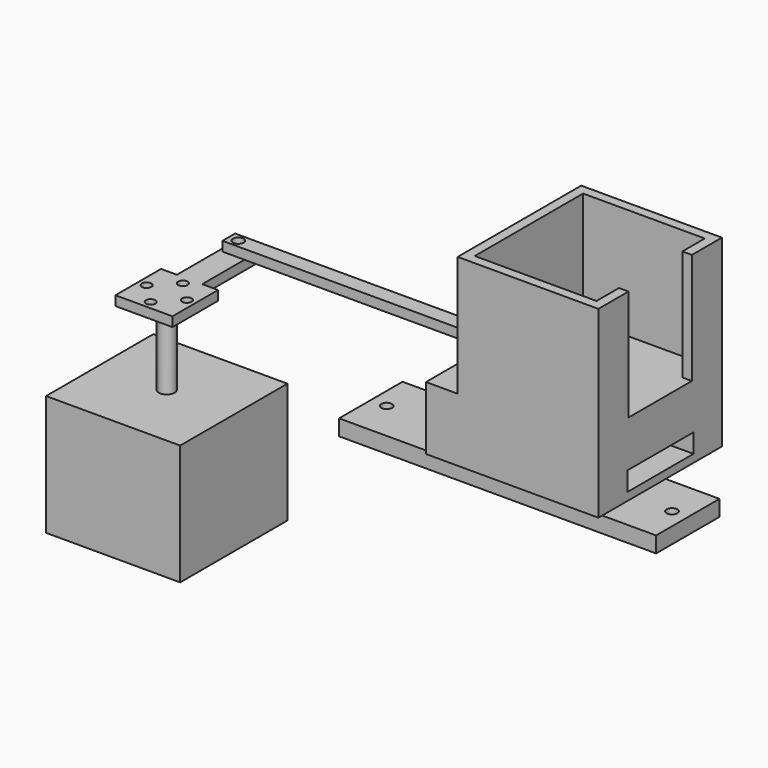
from build123d import *

# Parameters (mm, degrees)
BOX005_W                  = 100
BOX005_H                  = 26
BOX005_DEPTH              = 6
BOX003_W                  = 54.4
BOX003_H                  = 48.7
BOX003_DEPTH              = 20
BOX002_W                  = 3
BOX002_H                  = 25
BOX002_DEPTH              = 35
BOX_W                     = 38.4
BOX_H                     = 42.7
BOX_DEPTH                 = 35
BOX001_W                  = 44.4
BOX001_H                  = 48.7
BOX001_DEPTH              = 38
CYLINDER015_R             = 1.7
CYLINDER015_DEPTH         = 10
CYLINDER014_R             = 1.7
CYLINDER014_DEPTH         = 10
BOX014_W                  = 90
BOX014_H                  = 5
BOX014_DEPTH              = 3
CUT015_PLACEMENT_ANGLE    = 1.4e-05
CYLINDER011_R             = 1.8
CYLINDER011_DEPTH         = 10
BOX013_W                  = 8
BOX013_H                  = 22
BOX013_DEPTH              = 3
CYLINDER010_R             = 1.5
CYLINDER010_DEPTH         = 10
CYLINDER009_R             = 1.5
CYLINDER009_DEPTH         = 10
CYLINDER012_R             = 1.5
CYLINDER012_DEPTH         = 10
CYLINDER013_R             = 1.5
CYLINDER013_DEPTH         = 10
BOX012_W                  = 18
BOX012_H                  = 18
BOX012_DEPTH              = 3
FUSION005_PITCH_ANGLE     = 90
FUSION005_PLACEMENT_ANGLE = -90
CYLINDER008_R             = 2.5
CYLINDER008_DEPTH         = 24
BOX011_W                  = 42.3
BOX011_H                  = 42.3
BOX011_DEPTH              = 38
FUSION004_PLACEMENT_ANGLE = 90
FUSION006_ROLL_ANGLE      = -90
FUSION006_PLACEMENT_ANGLE = -90
CYLINDER016_R             = 1.7
CYLINDER016_DEPTH         = 10
CYLINDER_R                = 1.7
CYLINDER_DEPTH            = 10
BOX004_W                  = 100
BOX004_H                  = 25
BOX004_DEPTH              = 5


with BuildPart() as trayslidercutout:
    # Box005 → Box005 (new body)
    with BuildSketch(Plane(origin=(-50, 8.5, -15.5), x_dir=(1, 0, 0), z_dir=(0, 0, 1))):
        with Locations((50, 13)):
            Rectangle(BOX005_W, BOX005_H)
    extrude(amount=BOX005_DEPTH)


with BuildPart() as hollowholder:
    # Box003 → Box003 (new body)
    with BuildSketch(Plane(origin=(-13, -3, -18), x_dir=(1, 0, 0), z_dir=(0, 0, 1))):
        with Locations((27.2, 24.35)):
            Rectangle(BOX003_W, BOX003_H)
    extrude(amount=BOX003_DEPTH)

    # Cut002: cut TraySliderCutout
    add(trayslidercutout.part, mode=Mode.SUBTRACT)


with BuildPart() as trayrightcutout:
    # Box002 → Box002 (new body)
    with BuildSketch(Plane(origin=(38.4, 8.85, 0), x_dir=(1, 0, 0), z_dir=(0, 0, 1))):
        with Locations((1.5, 12.5)):
            Rectangle(BOX002_W, BOX002_H)
    extrude(amount=BOX002_DEPTH)


with BuildPart() as traynegative:
    # Box → Box (new body)
    with BuildSketch(Plane.XY):
        with Locations((19.2, 21.35)):
            Rectangle(BOX_W, BOX_H)
    extrude(amount=BOX_DEPTH)


with BuildPart() as fusion:
    # Box001 → Box001 (new body)
    with BuildSketch(Plane(origin=(-3, -3, -3), x_dir=(1, 0, 0), z_dir=(0, 0, 1))):
        with Locations((22.2, 24.35)):
            Rectangle(BOX001_W, BOX001_H)
    extrude(amount=BOX001_DEPTH)

    # Cut: cut TrayNegative
    add(traynegative.part, mode=Mode.SUBTRACT)

    # Cut001: cut TrayRightCutout
    add(trayrightcutout.part, mode=Mode.SUBTRACT)


with BuildPart() as fusion_1:
    # Cut001 placement: moved
    add(fusion.part.moved(Location((0, 0, 5))))

    # Fusion: union HollowHolder
    add(hollowholder.part)


with BuildPart() as cylinder015:
    # Cylinder015 → Cylinder015 (new body)
    with BuildSketch(Plane(origin=(87, 2.5, 0), x_dir=(1, 0, 0), z_dir=(0, 0, 1))):
        Circle(CYLINDER015_R)
    extrude(amount=CYLINDER015_DEPTH)


with BuildPart() as cylinder014:
    # Cylinder014 → Cylinder014 (new body)
    with BuildSketch(Plane(origin=(3, 2.5, 0), x_dir=(1, 0, 0), z_dir=(0, 0, 1))):
        Circle(CYLINDER014_R)
    extrude(amount=CYLINDER014_DEPTH)


with BuildPart() as obj1:
    # Box014 → Box014 (new body)
    with BuildSketch(Plane.XY):
        with Locations((45, 2.5)):
            Rectangle(BOX014_W, BOX014_H)
    extrude(amount=BOX014_DEPTH)

    # Cut016: cut Cylinder014
    add(cylinder014.part, mode=Mode.SUBTRACT)

    # Cut015: cut Cylinder015
    add(cylinder015.part, mode=Mode.SUBTRACT)


with BuildPart() as obj1_1:
    # Cut015 placement: moved
    add(obj1.part.moved(Location((-95.6, 20, 2))).rotate(Axis((-95.6, 20, 2), (0, 0, 1)), CUT015_PLACEMENT_ANGLE))


with BuildPart() as cylinder011:
    # Cylinder011 → Cylinder011 (new body)
    with BuildSketch(Plane(origin=(5, 2, 0), x_dir=(1, 0, 0), z_dir=(0, 0, 1))):
        Circle(CYLINDER011_R)
    extrude(amount=CYLINDER011_DEPTH)


with BuildPart() as cut013:
    # Box013 → Box013 (new body)
    with BuildSketch(Plane(origin=(1, -1, 0), x_dir=(1, 0, 0), z_dir=(0, 0, 1))):
        with Locations((4, 11)):
            Rectangle(BOX013_W, BOX013_H)
    extrude(amount=BOX013_DEPTH)

    # Cut013: cut Cylinder011
    add(cylinder011.part, mode=Mode.SUBTRACT)


with BuildPart() as cylinder010:
    # Cylinder010 → Cylinder010 (new body)
    with BuildSketch(Plane(origin=(5, 23.65, 0), x_dir=(1, 0, 0), z_dir=(0, 0, 1))):
        Circle(CYLINDER010_R)
    extrude(amount=CYLINDER010_DEPTH)


with BuildPart() as cylinder009:
    # Cylinder009 → Cylinder009 (new body)
    with BuildSketch(Plane(origin=(-1.35, 30, 0), x_dir=(1, 0, 0), z_dir=(0, 0, 1))):
        Circle(CYLINDER009_R)
    extrude(amount=CYLINDER009_DEPTH)


with BuildPart() as cylinder012:
    # Cylinder012 → Cylinder012 (new body)
    with BuildSketch(Plane(origin=(11.35, 30, 0), x_dir=(1, 0, 0), z_dir=(0, 0, 1))):
        Circle(CYLINDER012_R)
    extrude(amount=CYLINDER012_DEPTH)


with BuildPart() as cylinder013:
    # Cylinder013 → Cylinder013 (new body)
    with BuildSketch(Plane(origin=(5, 36.35, 0), x_dir=(1, 0, 0), z_dir=(0, 0, 1))):
        Circle(CYLINDER013_R)
    extrude(amount=CYLINDER013_DEPTH)


with BuildPart() as obj2:
    # Box012 → Box012 (new body)
    with BuildSketch(Plane(origin=(-4, 21, 0), x_dir=(1, 0, 0), z_dir=(0, 0, 1))):
        with Locations((9, 9)):
            Rectangle(BOX012_W, BOX012_H)
    extrude(amount=BOX012_DEPTH)

    # Cut010: cut Cylinder013
    add(cylinder013.part, mode=Mode.SUBTRACT)

    # Cut012: cut Cylinder012
    add(cylinder012.part, mode=Mode.SUBTRACT)

    # Cut011: cut Cylinder009
    add(cylinder009.part, mode=Mode.SUBTRACT)

    # Cut014: cut Cylinder010
    add(cylinder010.part, mode=Mode.SUBTRACT)

    # Fusion005: union Cut013
    add(cut013.part)


with BuildPart() as obj2_1:
    # Fusion005 pitch: moved
    add(obj2.part.rotate(Axis((0, 0, 0), (0, 1, 0)), FUSION005_PITCH_ANGLE))


with BuildPart() as obj2_2:
    # Fusion005 placement: moved
    add(obj2_1.part.moved(Location((60.15, 35, -21.85))).rotate(Axis((60.15, 35, -21.85), (0, 0, 1)), FUSION005_PLACEMENT_ANGLE))


with BuildPart() as rotor001:
    # Cylinder008 → Cylinder008 (new body)
    with BuildSketch(Plane(origin=(21.15, 21.15, 38), x_dir=(1, 0, 0), z_dir=(0, 0, 1))):
        Circle(CYLINDER008_R)
    extrude(amount=CYLINDER008_DEPTH)


with BuildPart() as obj3:
    # Box011 → Box011 (new body)
    with BuildSketch(Plane.XY):
        with Locations((21.15, 21.15)):
            Rectangle(BOX011_W, BOX011_H)
    extrude(amount=BOX011_DEPTH)

    # Fusion004: union Rotor001
    add(rotor001.part)


with BuildPart() as obj3_1:
    # Fusion004 placement: moved
    add(obj3.part.moved(Location((69, 97, -48))).rotate(Axis((69, 97, -48), (1, 0, 0)), FUSION004_PLACEMENT_ANGLE))

    # Fusion006: union obj2
    add(obj2_2.part)


with BuildPart() as obj3_2:
    # Fusion006 roll: moved
    add(obj3_1.part.rotate(Axis((0, 0, 0), (1, 0, 0)), FUSION006_ROLL_ANGLE))


with BuildPart() as obj3_3:
    # Fusion006 placement: moved
    add(obj3_2.part.moved(Location((-65.8, 84.5, 34))).rotate(Axis((-65.8, 84.5, 34), (0, 0, 1)), FUSION006_PLACEMENT_ANGLE))


with BuildPart() as cylinder016:
    # Cylinder016 → Cylinder016 (new body)
    with BuildSketch(Plane(origin=(45, 21.5, -33), x_dir=(1, 0, 0), z_dir=(0, 0, 1))):
        Circle(CYLINDER016_R)
    extrude(amount=CYLINDER016_DEPTH)


with BuildPart() as cylinder:
    # Cylinder → Cylinder (new body)
    with BuildSketch(Plane(origin=(-45, 21.5, -33), x_dir=(1, 0, 0), z_dir=(0, 0, 1))):
        Circle(CYLINDER_R)
    extrude(amount=CYLINDER_DEPTH)


with BuildPart() as obj4:
    # Box004 → Box004 (new body)
    with BuildSketch(Plane(origin=(-50, 9, -30), x_dir=(1, 0, 0), z_dir=(0, 0, 1))):
        with Locations((50, 12.5)):
            Rectangle(BOX004_W, BOX004_H)
    extrude(amount=BOX004_DEPTH)

    # Cut017: cut Cylinder
    add(cylinder.part, mode=Mode.SUBTRACT)

    # Cut018: cut Cylinder016
    add(cylinder016.part, mode=Mode.SUBTRACT)


solid = Compound([fusion_1.part, obj1_1.part, obj3_3.part, obj4.part])
